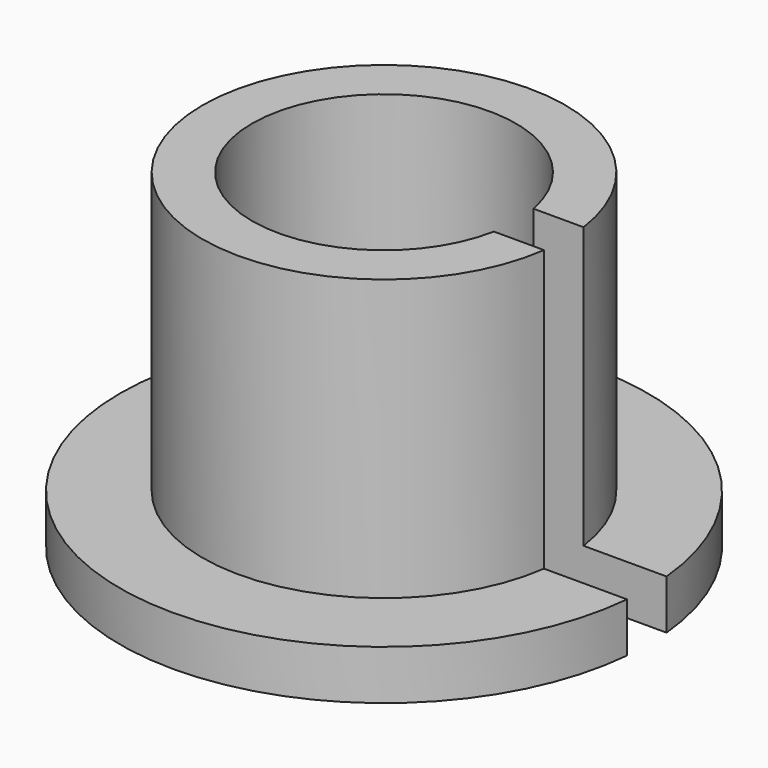
from build123d import *

# Parameters (mm, degrees)
BOX_W             = 11
BOX_H             = 1.5
BOX_DEPTH         = 15
CYLINDER002_R     = 4
CYLINDER002_DEPTH = 15
CYLINDER001_R     = 8
CYLINDER001_DEPTH = 1.5
CYLINDER_R        = 5.5
CYLINDER_DEPTH    = 10


with BuildPart() as cube:
    # Box → Box (new body)
    with BuildSketch(Plane(origin=(0, -0.75, 0), x_dir=(1, 0, 0), z_dir=(0, 0, 1))):
        with Locations((5.5, 0.75)):
            Rectangle(BOX_W, BOX_H)
    extrude(amount=BOX_DEPTH)


with BuildPart() as hole:
    # Cylinder002 → Cylinder002 (new body)
    with BuildSketch(Plane.XY):
        Circle(CYLINDER002_R)
    extrude(amount=CYLINDER002_DEPTH)


with BuildPart() as base:
    # Cylinder001 → Cylinder001 (new body)
    with BuildSketch(Plane.XY):
        Circle(CYLINDER001_R)
    extrude(amount=CYLINDER001_DEPTH)


with BuildPart() as cut001:
    # Cylinder → Cylinder (new body)
    with BuildSketch(Plane.XY):
        Circle(CYLINDER_R)
    extrude(amount=CYLINDER_DEPTH)

    # Fusion: union base
    add(base.part)

    # Cut: cut hole
    add(hole.part, mode=Mode.SUBTRACT)

    # Cut001: cut Cube
    add(cube.part, mode=Mode.SUBTRACT)


solid = cut001.part
